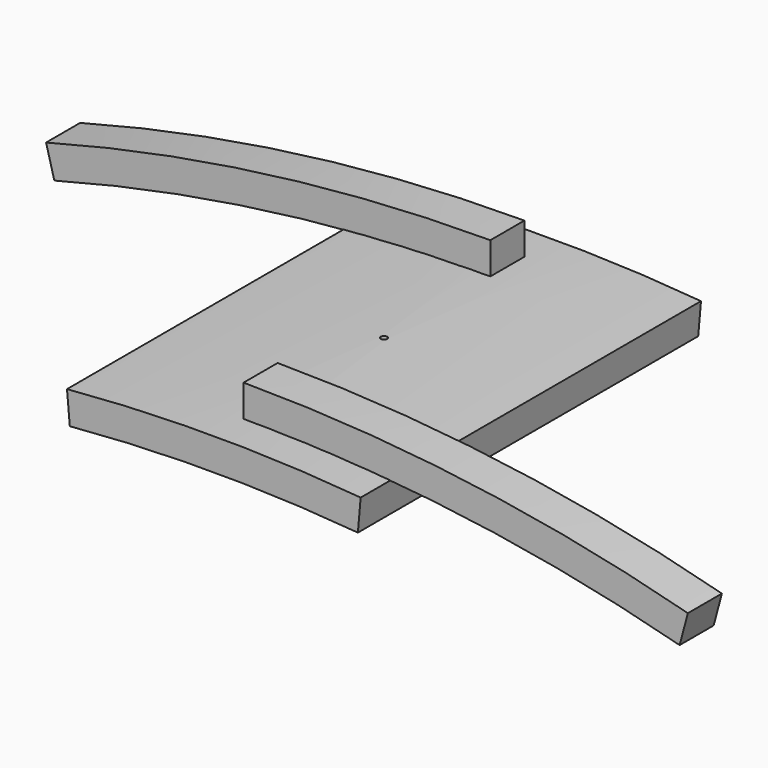
from build123d import *

# Parameters (mm, degrees)
F0_W     = 400
F0_H     = 30
F1_ANGLE = 10
F4_D     = 6
F4_DEPTH = 100
F5_W     = 40
F5_H     = 30
F6_ANGLE = 15
F7_ANGLE = -15


with BuildPart() as f1:
    # F0 (on Right) → F1 (revolve, symmetric)
    with BuildSketch(Plane.YZ) as f1_sk:
        with Locations((0, 1569)):
            Rectangle(F0_W, F0_H)
    revolve(axis=Axis((0, -0.207613, 0), (0, 1, 0)), revolution_arc=F1_ANGLE / 2)
    revolve(f1_sk.sketch, axis=Axis((0, -0.207613, 0), (0, -1, 0)), revolution_arc=F1_ANGLE / 2)

    # F4
    with Locations(Plane.XY.offset(1600)):
        with Locations((0, 0)):
            Hole(F4_D / 2, depth=F4_DEPTH)


with BuildPart() as f6:
    # F5 (on Right) → F6 (revolve)
    with BuildSketch(Plane.YZ):
        with Locations((-145, 1599)):
            Rectangle(F5_W, F5_H)
    revolve(axis=Axis((0, -0.207613, 0), (0, 1, 0)), revolution_arc=F6_ANGLE)


with BuildPart() as f7:
    # F5 (on Right) → F7 (revolve)
    with BuildSketch(Plane.YZ):
        with Locations((145, 1599)):
            Rectangle(F5_W, F5_H)
    revolve(axis=Axis((0, -0.207613, 0), (0, 1, 0)), revolution_arc=F7_ANGLE)


solid = Compound([f1.part, f6.part, f7.part])
